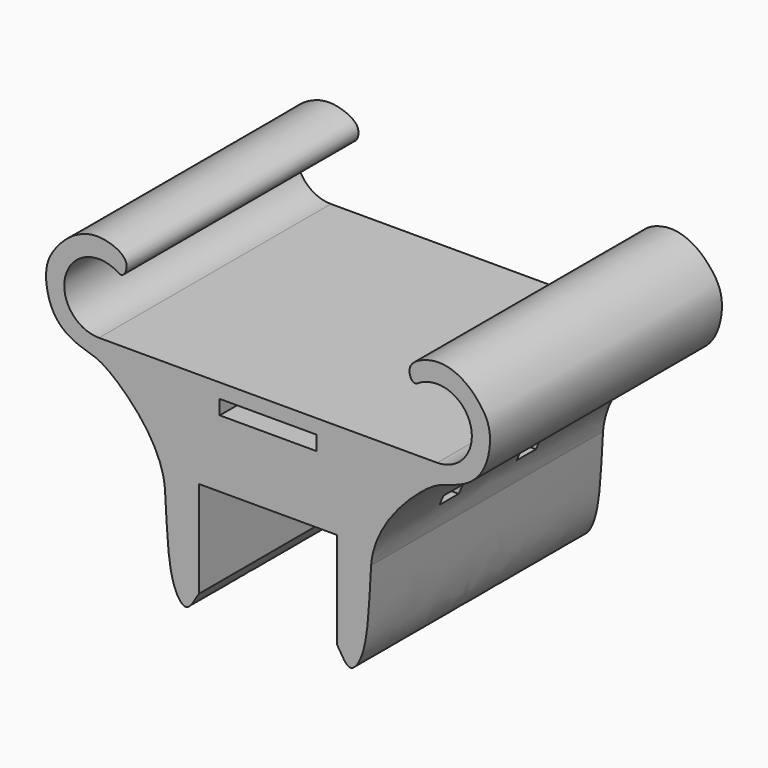
from build123d import *

# Parameters (mm, degrees)
F1_DEPTH = 60
F2_W     = 5
F2_H     = 2
F3_DEPTH = 25
F4_DEPTH = 25


with BuildPart() as f1:
    # F0 (on Front) → F1 (new body)
    with BuildSketch(Plane.XZ):
        with BuildLine():
            Line((35, 6), (0, 6))
            Line((0, 6), (-35, 6))
            ThreePointArc((-35, 6), (-42.0343163478, 14.6310037548), (-32.1615971625, 19.7793285488))
            add(Edge.make_bspline(
                [(-32.1615971625, 19.7793285488), (-31.6259634198, 19.6697664312), (-30.0126597802, 18.0005029273), (-28.5446083955, 21.9207290612), (-32.2223376103, 24.1284081225), (-36.5774704214, 24.7253389285), (-40.8654287073, 22.8133472104), (-43.8099355575, 19.8269584857), (-46.6300203268, 15.535255503), (-45.2137511935, 7.0971019768), (-40.3698445521, 3.4846194009), (-35.9888648971, 2.467501233), (-31.711439585, 0.2621715692), (-21.9153884218, -9.4386454788), (-21.333200857, -17.1526297927)],
                knots=[0, 0, 0, 0, 0.0524582927, 0.1108198951, 0.1814355045, 0.258293507, 0.3356641312, 0.4098241301, 0.4907229591, 0.5936933533, 0.6814695696, 0.7555147063, 0.8352212373, 1, 1, 1, 1], degree=3))
            add(Edge.make_bspline(
                [(-14.3, -33.90409749), (-15.378799786, -35.6867888152), (-16.8783126153, -38.5848219375), (-20.8094682076, -33.1179416708), (-20.9143728752, -23.5553345316), (-21.333200857, -17.1526297927)],
                knots=[0, 0, 0, 0, 0.2515210919, 0.4991094348, 1, 1, 1, 1], degree=3))
            Line((-14.3, -33.90409749), (-14.3, -13.90409749))
            Line((-14.3, -13.90409749), (0, -13.90409749))
            Line((0, -13.90409749), (14.3, -13.90409749))
            Line((14.3, -13.90409749), (14.3, -33.90409749))
            add(Edge.make_bspline(
                [(14.3, -33.90409749), (15.378799786, -35.6867888152), (16.8783126153, -38.5848219375), (20.8094682076, -33.1179416708), (20.9143728752, -23.5553345316), (21.333200857, -17.1526297927)],
                knots=[0, 0, 0, 0, 0.2515210919, 0.4991094348, 1, 1, 1, 1], degree=3))
            add(Edge.make_bspline(
                [(32.1615971625, 19.7793285488), (31.6259634198, 19.6697664312), (30.0126597802, 18.0005029273), (28.5446083955, 21.9207290612), (32.2223376103, 24.1284081225), (36.5774704214, 24.7253389285), (40.8654287073, 22.8133472104), (43.8099355575, 19.8269584857), (46.6300203268, 15.535255503), (45.2137511935, 7.0971019768), (40.3698445521, 3.4846194009), (35.9888648971, 2.467501233), (31.711439585, 0.2621715692), (21.9153884218, -9.4386454788), (21.333200857, -17.1526297927)],
                knots=[0, 0, 0, 0, 0.0524582927, 0.1108198951, 0.1814355045, 0.258293507, 0.3356641312, 0.4098241301, 0.4907229591, 0.5936933533, 0.6814695696, 0.7555147063, 0.8352212373, 1, 1, 1, 1], degree=3))
            ThreePointArc((32.1615971625, 19.7793285488), (42.0343163478, 14.6310037548), (35, 6))
        make_face()
        Polygon((10, 0), (0, 0), (-10, 0), (-10, 3), (0, 3), (10, 3), align=None, mode=Mode.SUBTRACT)
    extrude(amount=F1_DEPTH)

    # F2 (on Right) → F3 (cut)
    with BuildSketch(Plane.YZ):
        with Locations((-41.2627384067, -11.3835261338)):
            Rectangle(F2_W, F2_H)
        with Locations((-21.2627384067, -11.3835261338)):
            Rectangle(F2_W, F2_H)
    extrude(amount=F3_DEPTH, mode=Mode.SUBTRACT)

    # F2 (on Right) → F4 (cut)
    with BuildSketch(Plane.YZ):
        with Locations((-21.2627384067, -11.3835261338)):
            Rectangle(F2_W, F2_H)
        with Locations((-41.2627384067, -11.3835261338)):
            Rectangle(F2_W, F2_H)
    extrude(amount=-F4_DEPTH, mode=Mode.SUBTRACT)


solid = f1.part
